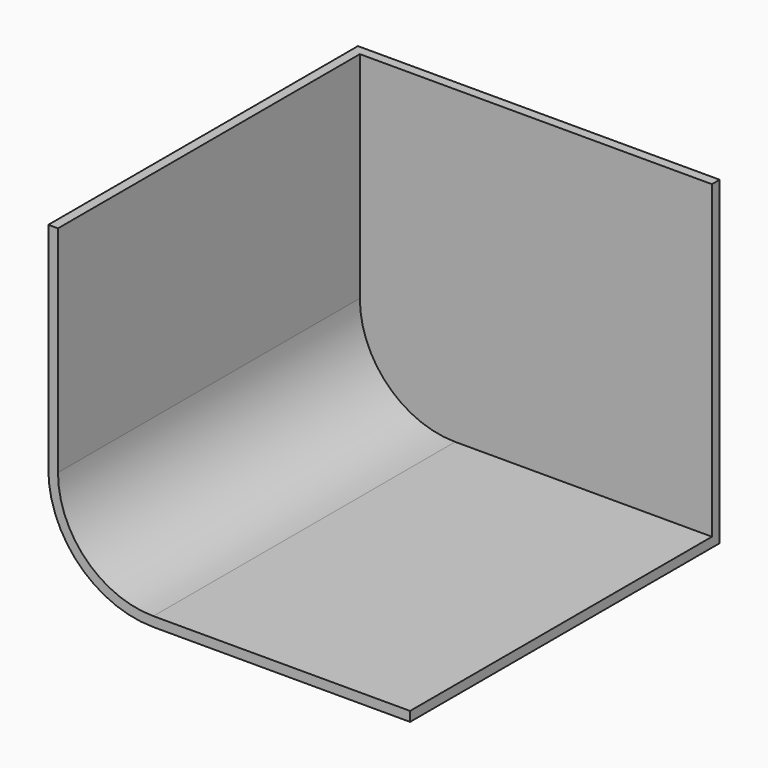
from build123d import *

# Parameters (mm, degrees)
F0_W     = 95.043734
F0_H     = 101.66876
F1_DEPTH = 84.074
F2_R     = 27.594461
F3_T     = -2.54


with BuildPart() as f1:
    # F0 (on Top) → F1 (new body)
    with BuildSketch(Plane.XY):
        Rectangle(F0_W, F0_H)
    extrude(amount=F1_DEPTH)

    # F2
    f2_edges = [f1.edges().sort_by_distance(p)[0] for p in [
        (-47.521867, 0, 0),
    ]]
    fillet(f2_edges, radius=F2_R)

    # F3
    f3_openings = [f1.faces().sort_by_distance(p)[0] for p in [
        (0.863429, -50.83438, 42.785922),
        (0, 0, 84.074),
        (47.521867, 0, 42.037),
    ]]
    offset(amount=F3_T, openings=f3_openings)


solid = f1.part
